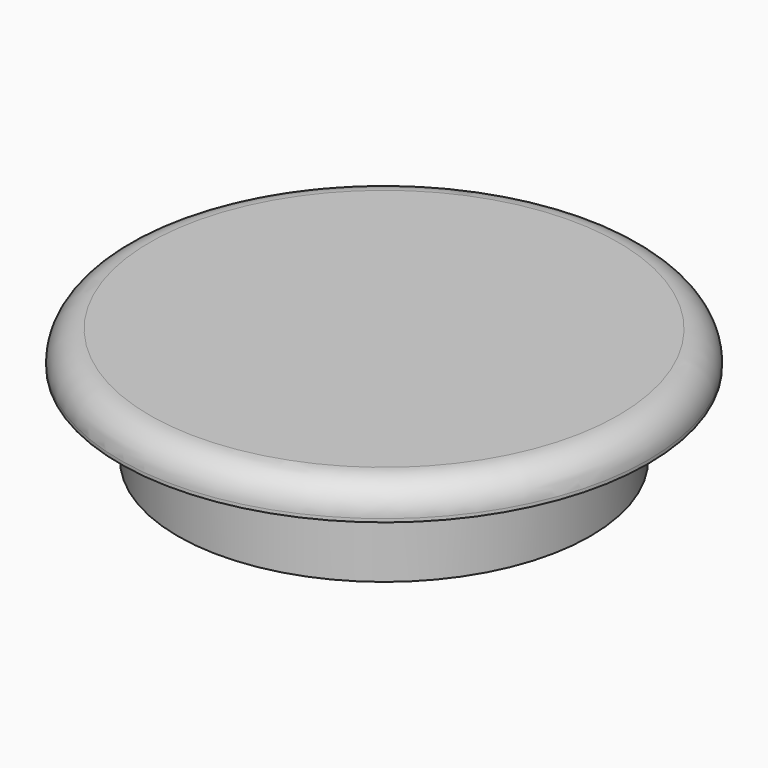
from build123d import *

# Parameters (mm, degrees)
CYLINDER_R        = 6.25
CYLINDER_DEPTH    = 2.5
CYLINDER001_R     = 8
CYLINDER001_DEPTH = 1
FILLET_R          = 0.9


with BuildPart() as cylinder:
    # Cylinder → Cylinder (new body)
    with BuildSketch(Plane.XY):
        Circle(CYLINDER_R)
    extrude(amount=CYLINDER_DEPTH)


with BuildPart() as fillet_body:
    # Cylinder001 → Cylinder001 (new body)
    with BuildSketch(Plane.XY.offset(2.5)):
        Circle(CYLINDER001_R)
    extrude(amount=CYLINDER001_DEPTH)

    # Fusion: union Cylinder
    add(cylinder.part)

    # Fillet
    fillet_edges = [fillet_body.edges().sort_by_distance(p)[0] for p in [
        (-8, 0, 3.5),
    ]]
    fillet(fillet_edges, radius=FILLET_R)


solid = fillet_body.part
